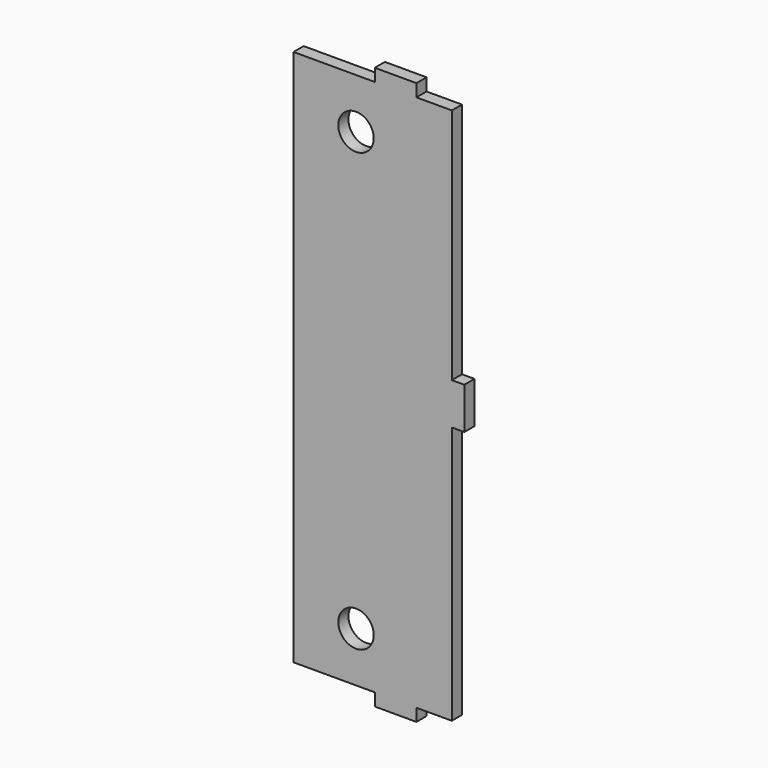
from build123d import *

# Parameters (mm, degrees)
F0_R     = 4.250004
F1_DEPTH = 3.048


with BuildPart() as f1:
    # F0 (on Front) → F1 (new body)
    with BuildSketch(Plane.XZ):
        Polygon((17.49999, -64.499998), (17.49999, -2.499995), (20.499984, -2.499995), (20.499984, 7.499985), (17.49999, 7.499985), (17.49999, 64.499998), (8.999982, 64.499998), (8.999982, 67.499992), (-0.999998, 67.499992), (-0.999998, 64.499998), (-20.50001, 64.499998), (-20.50001, -64.499998), (-0.999998, -64.499998), (-0.999998, -67.500017), (8.999982, -67.500017), (8.999982, -64.499998), align=None)
        with Locations((-5.500014, -52.499997)):
            Circle(F0_R, mode=Mode.SUBTRACT)
        with Locations((-5.500014, 52.499997)):
            Circle(F0_R, mode=Mode.SUBTRACT)
    extrude(amount=F1_DEPTH)


solid = f1.part
